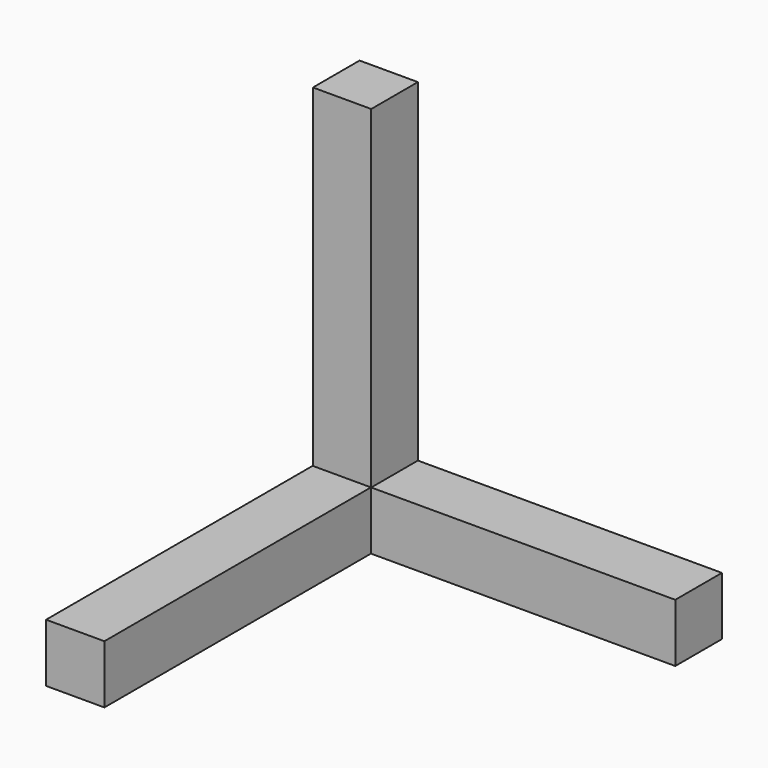
from build123d import *

# Parameters (mm, degrees)
F0_W     = 3.5
F0_H     = 3.5
F1_DEPTH = 23.5
F2_W     = 3.5
F2_H     = 3.5
F3_DEPTH = 20
F4_W     = 3.5
F4_H     = 3.5
F5_DEPTH = 21.75


with BuildPart() as f1:
    # F0 (on Top) → F1 (new body)
    with BuildSketch(Plane.XY):
        Rectangle(F0_W, F0_H)
    extrude(amount=F1_DEPTH)

    # F2 (on Right) → F3 (join)
    with BuildSketch(Plane.YZ):
        with Locations((0, 1.75)):
            Rectangle(F2_W, F2_H)
    extrude(amount=F3_DEPTH)

    # F4 (on Front) → F5 (join)
    with BuildSketch(Plane.XZ):
        with Locations((-0.01725, 1.75)):
            Rectangle(F4_W, F4_H)
    extrude(amount=F5_DEPTH)


with BuildPart() as f6_1:
    # F6: copy of F1
    add(f1.part)


solid = Compound([f1.part, f6_1.part])
